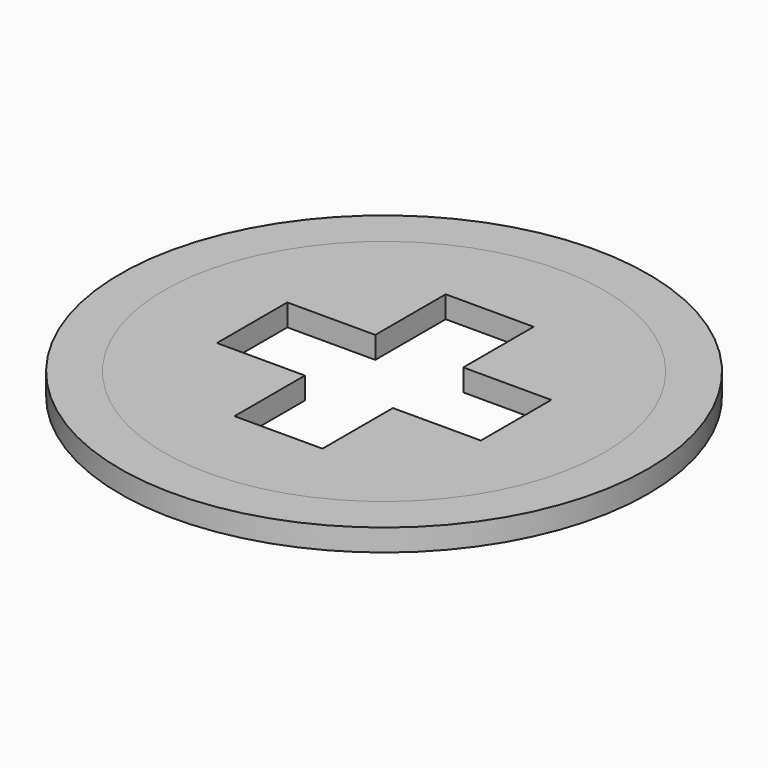
from build123d import *

# Parameters (mm, degrees)
F0_R     = 50
F1_DEPTH = 5
F2_R     = 60
F2_R_2   = 50
F3_DEPTH = 5


with BuildPart() as f1:
    # F0 (on Top) → F1 (new body)
    with BuildSketch(Plane.XY):
        Circle(F0_R)
        Polygon((-10, 30), (0, 30), (10, 30), (10, 10), (30, 10), (30, 0), (30, -10), (10, -10), (10, -30), (0, -30), (-10, -30), (-10, -10), (-30, -10), (-30, 0), (-30, 10), (-10, 10), align=None, mode=Mode.SUBTRACT)
    extrude(amount=F1_DEPTH)


with BuildPart() as f3:
    # F2 (on face) → F3 (new body)
    with BuildSketch(Plane.XY.offset(5)):
        Circle(F2_R)
        Circle(F2_R_2, mode=Mode.SUBTRACT)
    extrude(amount=-F3_DEPTH)


solid = Compound([f1.part, f3.part])
